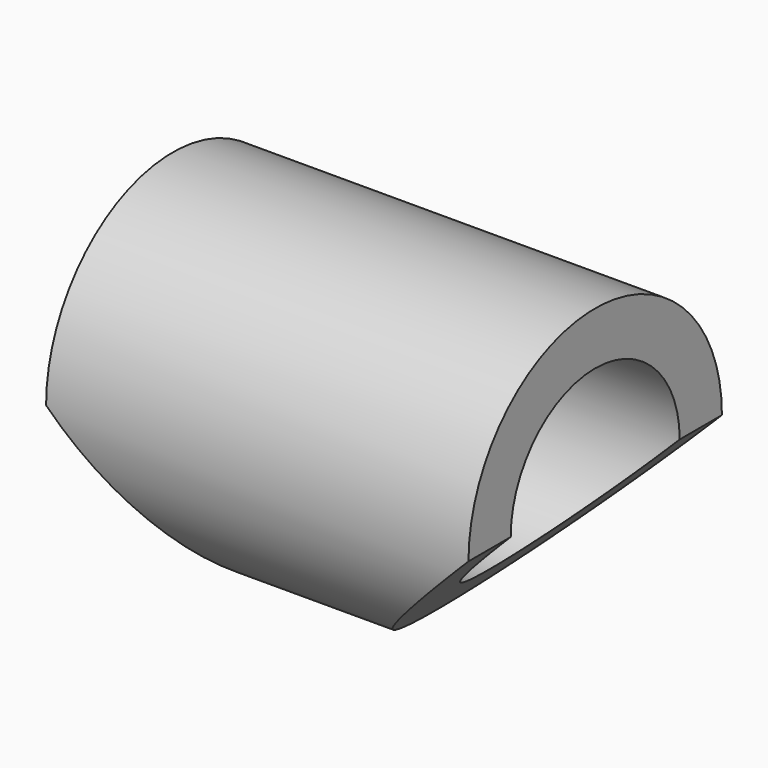
from build123d import *

# Parameters (mm, degrees)
F0_R     = 9.525
F0_R_2   = 6.35
F1_DEPTH = 12.7
F3_DEPTH = 12.7


with BuildPart() as f1:
    # F0 (on Right) → F1 (new body, symmetric)
    with BuildSketch(Plane.YZ):
        Circle(F0_R)
        Circle(F0_R_2, mode=Mode.SUBTRACT)
    extrude(amount=F1_DEPTH, both=True)

    # F2 (on Front) → F3 (cut, symmetric)
    with BuildSketch(Plane.XZ):
        Polygon((0, -12.7), (-12.7, 0), (-25.757156, -46.106377), (50.3754, -47.463684), (12.7, 0), align=None)
    extrude(amount=F3_DEPTH, both=True, mode=Mode.SUBTRACT)


solid = f1.part
